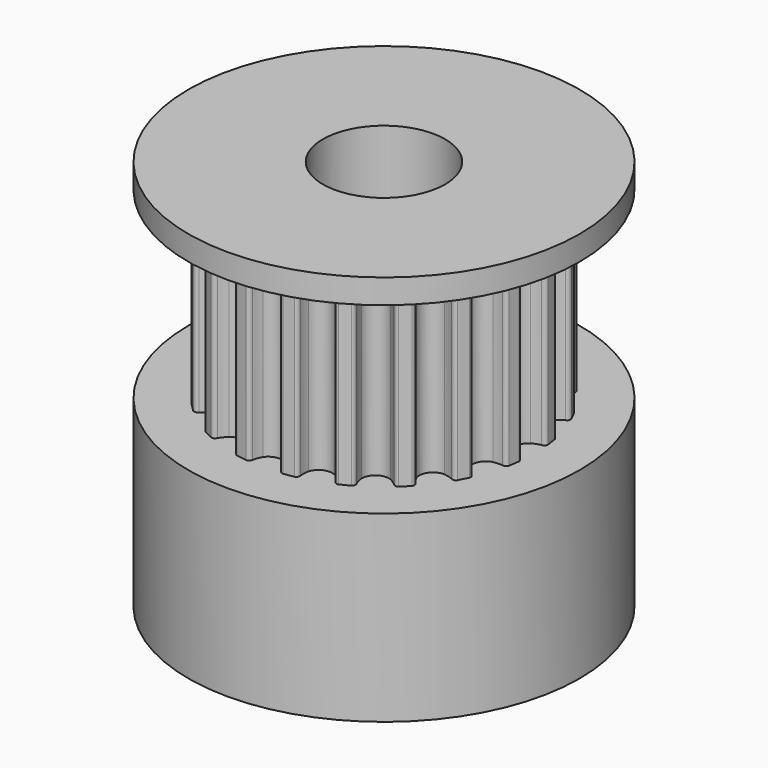
from build123d import *

# Parameters (mm, degrees)
SKETCHGEAR_R   = 2.5
PAD_DEPTH      = 7.5
SKETCHBASE_R   = 8
SKETCHBASE_R_2 = 2.5
PADBASE_DEPTH  = 7.5
SKETCHTOP_R    = 8
SKETCHTOP_R_2  = 2.5
PADTOP_DEPTH   = 1


with BuildPart() as part:
    # SketchGear → Pad (new body)
    with BuildSketch(Plane.XY.offset(7.5)):
        with BuildLine():
            ThreePointArc((6.112198, -0.75), (6.068264, -0.643934), (5.962198, -0.6))
            ThreePointArc((5.962198, -0.6), (5.782909, -0.544218), (5.612198, -0.466025))
            ThreePointArc((5.612198, -0.466025), (5.362198, 0), (5.612198, 0.466025))
            ThreePointArc((5.612198, 0.466025), (5.782909, 0.544218), (5.962198, 0.6))
            ThreePointArc((5.962198, 0.6), (6.068264, 0.643934), (6.112198, 0.75))
            Line((6.112198, 0.75), (6.044808, 1.175481))
            ThreePointArc((6.044808, 1.175481), (5.970248, 1.262779), (5.855797, 1.271787))
            ThreePointArc((5.855797, 1.271787), (5.668045, 1.269435), (5.481527, 1.291048))
            ThreePointArc((5.481527, 1.291048), (5.099753, 1.65701), (5.193507, 2.177481))
            ThreePointArc((5.193507, 2.177481), (5.331701, 2.304599), (5.484977, 2.413054))
            ThreePointArc((5.484977, 2.413054), (5.572275, 2.487614), (5.581283, 2.602065))
            Line((5.581283, 2.602065), (5.385711, 2.985897))
            ThreePointArc((5.385711, 2.985897), (5.287823, 3.045882), (5.17619, 3.019082))
            ThreePointArc((5.17619, 3.019082), (4.998354, 2.958827), (4.814286, 2.921745))
            ThreePointArc((4.814286, 2.921745), (4.338109, 3.151821), (4.26644, 3.67579))
            ThreePointArc((4.26644, 3.67579), (4.358588, 3.83939), (4.470848, 3.989902))
            ThreePointArc((4.470848, 3.989902), (4.530834, 4.087789), (4.504033, 4.199422))
            Line((4.504033, 4.199422), (4.199422, 4.504033))
            ThreePointArc((4.199422, 4.504033), (4.087789, 4.530834), (3.989902, 4.470848))
            ThreePointArc((3.989902, 4.470848), (3.83939, 4.358588), (3.67579, 4.26644))
            ThreePointArc((3.67579, 4.26644), (3.151821, 4.338109), (2.921745, 4.814286))
            ThreePointArc((2.921745, 4.814286), (2.958827, 4.998354), (3.019082, 5.17619))
            ThreePointArc((3.019082, 5.17619), (3.045882, 5.287823), (2.985897, 5.385711))
            Line((2.985897, 5.385711), (2.602065, 5.581283))
            ThreePointArc((2.602065, 5.581283), (2.487614, 5.572275), (2.413054, 5.484977))
            ThreePointArc((2.413054, 5.484977), (2.304599, 5.331701), (2.177481, 5.193507))
            ThreePointArc((2.177481, 5.193507), (1.65701, 5.099753), (1.291048, 5.481527))
            ThreePointArc((1.291048, 5.481527), (1.269435, 5.668045), (1.271787, 5.855797))
            ThreePointArc((1.271787, 5.855797), (1.262779, 5.970248), (1.175481, 6.044808))
            Line((1.175481, 6.044808), (0.75, 6.112198))
            ThreePointArc((0.75, 6.112198), (0.643934, 6.068264), (0.6, 5.962198))
            ThreePointArc((0.6, 5.962198), (0.544218, 5.782909), (0.466025, 5.612198))
            ThreePointArc((0.466025, 5.612198), (0, 5.362198), (-0.466025, 5.612198))
            ThreePointArc((-0.466025, 5.612198), (-0.544218, 5.782909), (-0.6, 5.962198))
            ThreePointArc((-0.6, 5.962198), (-0.643934, 6.068264), (-0.75, 6.112198))
            Line((-0.75, 6.112198), (-1.175481, 6.044808))
            ThreePointArc((-1.175481, 6.044808), (-1.262779, 5.970248), (-1.271787, 5.855797))
            ThreePointArc((-1.271787, 5.855797), (-1.269435, 5.668045), (-1.291048, 5.481527))
            ThreePointArc((-1.291048, 5.481527), (-1.65701, 5.099753), (-2.177481, 5.193507))
            ThreePointArc((-2.177481, 5.193507), (-2.304599, 5.331701), (-2.413054, 5.484977))
            ThreePointArc((-2.413054, 5.484977), (-2.487614, 5.572275), (-2.602065, 5.581283))
            Line((-2.602065, 5.581283), (-2.985897, 5.385711))
            ThreePointArc((-2.985897, 5.385711), (-3.045882, 5.287823), (-3.019082, 5.17619))
            ThreePointArc((-3.019082, 5.17619), (-2.958827, 4.998354), (-2.921745, 4.814286))
            ThreePointArc((-2.921745, 4.814286), (-3.151821, 4.338109), (-3.67579, 4.26644))
            ThreePointArc((-3.67579, 4.26644), (-3.83939, 4.358588), (-3.989902, 4.470848))
            ThreePointArc((-3.989902, 4.470848), (-4.087789, 4.530834), (-4.199422, 4.504033))
            Line((-4.199422, 4.504033), (-4.504033, 4.199422))
            ThreePointArc((-4.504033, 4.199422), (-4.530834, 4.087789), (-4.470848, 3.989902))
            ThreePointArc((-4.470848, 3.989902), (-4.358588, 3.83939), (-4.26644, 3.67579))
            ThreePointArc((-4.26644, 3.67579), (-4.338109, 3.151821), (-4.814286, 2.921745))
            ThreePointArc((-4.814286, 2.921745), (-4.998354, 2.958827), (-5.17619, 3.019082))
            ThreePointArc((-5.17619, 3.019082), (-5.287823, 3.045882), (-5.385711, 2.985897))
            Line((-5.385711, 2.985897), (-5.581283, 2.602065))
            ThreePointArc((-5.581283, 2.602065), (-5.572275, 2.487614), (-5.484977, 2.413054))
            ThreePointArc((-5.484977, 2.413054), (-5.331701, 2.304599), (-5.193507, 2.177481))
            ThreePointArc((-5.193507, 2.177481), (-5.099753, 1.65701), (-5.481527, 1.291048))
            ThreePointArc((-5.481527, 1.291048), (-5.668045, 1.269435), (-5.855797, 1.271787))
            ThreePointArc((-5.855797, 1.271787), (-5.970248, 1.262779), (-6.044808, 1.175481))
            Line((-6.044808, 1.175481), (-6.112198, 0.75))
            ThreePointArc((-6.112198, 0.75), (-6.068264, 0.643934), (-5.962198, 0.6))
            ThreePointArc((-5.962198, 0.6), (-5.782909, 0.544218), (-5.612198, 0.466025))
            ThreePointArc((-5.612198, 0.466025), (-5.362198, 0), (-5.612198, -0.466025))
            ThreePointArc((-5.612198, -0.466025), (-5.782909, -0.544218), (-5.962198, -0.6))
            ThreePointArc((-5.962198, -0.6), (-6.068264, -0.643934), (-6.112198, -0.75))
            Line((-6.112198, -0.75), (-6.044808, -1.175481))
            ThreePointArc((-6.044808, -1.175481), (-5.970248, -1.262779), (-5.855797, -1.271787))
            ThreePointArc((-5.855797, -1.271787), (-5.668045, -1.269435), (-5.481527, -1.291048))
            ThreePointArc((-5.481527, -1.291048), (-5.099753, -1.65701), (-5.193507, -2.177481))
            ThreePointArc((-5.193507, -2.177481), (-5.331701, -2.304599), (-5.484977, -2.413054))
            ThreePointArc((-5.484977, -2.413054), (-5.572275, -2.487614), (-5.581283, -2.602065))
            Line((-5.581283, -2.602065), (-5.385711, -2.985897))
            ThreePointArc((-5.385711, -2.985897), (-5.287823, -3.045882), (-5.17619, -3.019082))
            ThreePointArc((-5.17619, -3.019082), (-4.998354, -2.958827), (-4.814286, -2.921745))
            ThreePointArc((-4.814286, -2.921745), (-4.338109, -3.151821), (-4.26644, -3.67579))
            ThreePointArc((-4.26644, -3.67579), (-4.358588, -3.83939), (-4.470848, -3.989902))
            ThreePointArc((-4.470848, -3.989902), (-4.530834, -4.087789), (-4.504033, -4.199422))
            Line((-4.504033, -4.199422), (-4.199422, -4.504033))
            ThreePointArc((-4.199422, -4.504033), (-4.087789, -4.530834), (-3.989902, -4.470848))
            ThreePointArc((-3.989902, -4.470848), (-3.83939, -4.358588), (-3.67579, -4.26644))
            ThreePointArc((-3.67579, -4.26644), (-3.151821, -4.338109), (-2.921745, -4.814286))
            ThreePointArc((-2.921745, -4.814286), (-2.958827, -4.998354), (-3.019082, -5.17619))
            ThreePointArc((-3.019082, -5.17619), (-3.045882, -5.287823), (-2.985897, -5.385711))
            Line((-2.985897, -5.385711), (-2.602065, -5.581283))
            ThreePointArc((-2.602065, -5.581283), (-2.487614, -5.572275), (-2.413054, -5.484977))
            ThreePointArc((-2.413054, -5.484977), (-2.304599, -5.331701), (-2.177481, -5.193507))
            ThreePointArc((-2.177481, -5.193507), (-1.65701, -5.099753), (-1.291048, -5.481527))
            ThreePointArc((-1.291048, -5.481527), (-1.269435, -5.668045), (-1.271787, -5.855797))
            ThreePointArc((-1.271787, -5.855797), (-1.262779, -5.970248), (-1.175481, -6.044808))
            Line((-1.175481, -6.044808), (-0.75, -6.112198))
            ThreePointArc((-0.75, -6.112198), (-0.643934, -6.068264), (-0.6, -5.962198))
            ThreePointArc((-0.6, -5.962198), (-0.544218, -5.782909), (-0.466025, -5.612198))
            ThreePointArc((-0.466025, -5.612198), (0, -5.362198), (0.466025, -5.612198))
            ThreePointArc((0.466025, -5.612198), (0.544218, -5.782909), (0.6, -5.962198))
            ThreePointArc((0.6, -5.962198), (0.643934, -6.068264), (0.75, -6.112198))
            Line((0.75, -6.112198), (1.175481, -6.044808))
            ThreePointArc((1.175481, -6.044808), (1.262779, -5.970248), (1.271787, -5.855797))
            ThreePointArc((1.271787, -5.855797), (1.269435, -5.668045), (1.291048, -5.481527))
            ThreePointArc((1.291048, -5.481527), (1.65701, -5.099753), (2.177481, -5.193507))
            ThreePointArc((2.177481, -5.193507), (2.304599, -5.331701), (2.413054, -5.484977))
            ThreePointArc((2.413054, -5.484977), (2.487614, -5.572275), (2.602065, -5.581283))
            Line((2.602065, -5.581283), (2.985897, -5.385711))
            ThreePointArc((2.985897, -5.385711), (3.045882, -5.287823), (3.019082, -5.17619))
            ThreePointArc((3.019082, -5.17619), (2.958827, -4.998354), (2.921745, -4.814286))
            ThreePointArc((2.921745, -4.814286), (3.151821, -4.338109), (3.67579, -4.26644))
            ThreePointArc((3.67579, -4.26644), (3.83939, -4.358588), (3.989902, -4.470848))
            ThreePointArc((3.989902, -4.470848), (4.087789, -4.530834), (4.199422, -4.504033))
            Line((4.199422, -4.504033), (4.504033, -4.199422))
            ThreePointArc((4.504033, -4.199422), (4.530834, -4.087789), (4.470848, -3.989902))
            ThreePointArc((4.470848, -3.989902), (4.358588, -3.83939), (4.26644, -3.67579))
            ThreePointArc((4.26644, -3.67579), (4.338109, -3.151821), (4.814286, -2.921745))
            ThreePointArc((4.814286, -2.921745), (4.998354, -2.958827), (5.17619, -3.019082))
            ThreePointArc((5.17619, -3.019082), (5.287823, -3.045882), (5.385711, -2.985897))
            Line((5.385711, -2.985897), (5.581283, -2.602065))
            ThreePointArc((5.581283, -2.602065), (5.572275, -2.487614), (5.484977, -2.413054))
            ThreePointArc((5.484977, -2.413054), (5.331701, -2.304599), (5.193507, -2.177481))
            ThreePointArc((5.193507, -2.177481), (5.099753, -1.65701), (5.481527, -1.291048))
            ThreePointArc((5.481527, -1.291048), (5.668045, -1.269435), (5.855797, -1.271787))
            ThreePointArc((5.855797, -1.271787), (5.970248, -1.262779), (6.044808, -1.175481))
            Line((6.044808, -1.175481), (6.112198, -0.75))
        make_face()
        Circle(SKETCHGEAR_R, mode=Mode.SUBTRACT)
    extrude(amount=PAD_DEPTH)

    # SketchBase → PadBase (join)
    with BuildSketch(Plane.XY):
        Circle(SKETCHBASE_R)
        Circle(SKETCHBASE_R_2, mode=Mode.SUBTRACT)
    extrude(amount=PADBASE_DEPTH)

    # SketchTop → PadTop (join)
    with BuildSketch(Plane.XY.offset(15)):
        Circle(SKETCHTOP_R)
        Circle(SKETCHTOP_R_2, mode=Mode.SUBTRACT)
    extrude(amount=PADTOP_DEPTH)


solid = part.part
